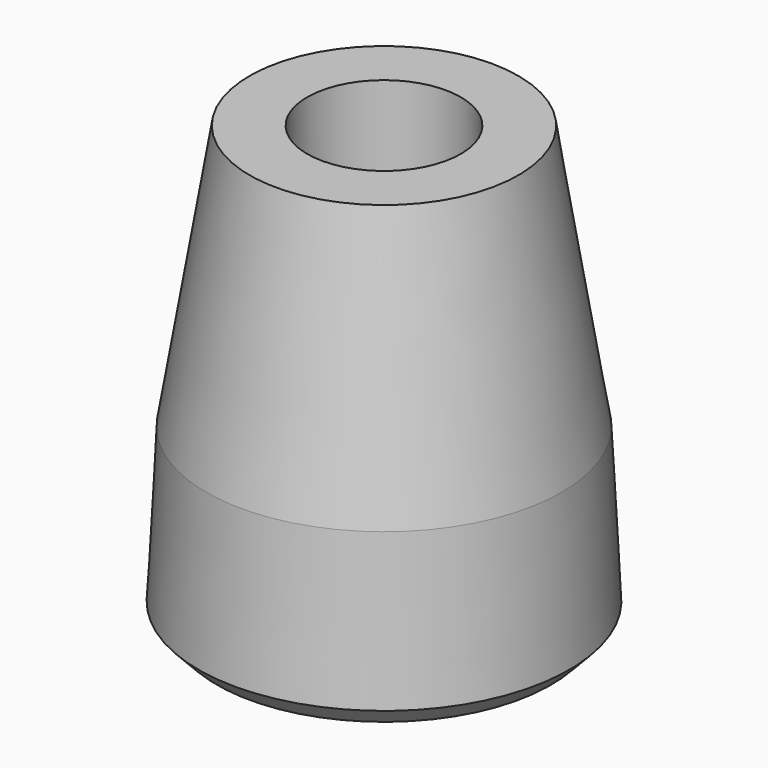
from build123d import *

# Parameters (mm, degrees)
SKETCH001_R  = 4
HOLE_DEPTH   = 7.5
CHAMFER_SIZE = 1


with BuildPart() as part:
    # Sketch → Revolution (revolve)
    with BuildSketch(Plane.YZ):
        Polygon((2, 0), (9.7, 0), (9.25, 9), (7, 22.8), (2, 22.8), align=None)
    revolve(axis=Axis((0, 0, 0), (0, 0, 1)))

    # Sketch001 (on Face4 of Revolution) → Hole (cut)
    with BuildSketch(Plane(origin=(0, 0, 22.8), x_dir=(0, -1, 0), z_dir=(0, 0, 1))):
        Circle(SKETCH001_R)
    extrude(amount=-HOLE_DEPTH, mode=Mode.SUBTRACT)

    # Chamfer
    chamfer_edges = [part.edges().sort_by_distance(p)[0] for p in [
        (0, -9.7, 0),
    ]]
    chamfer(chamfer_edges, length=CHAMFER_SIZE)


solid = part.part
